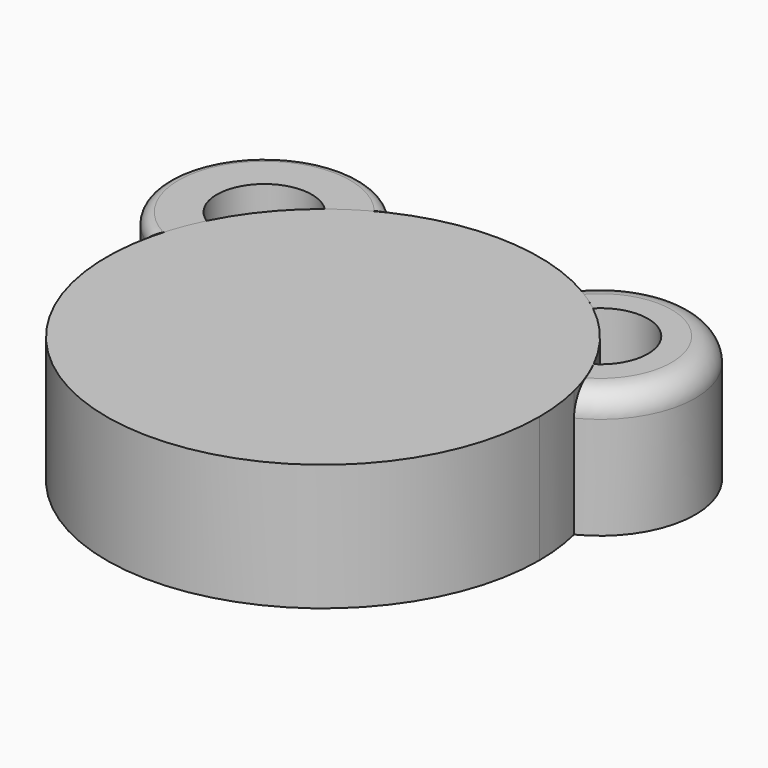
from build123d import *

# Parameters (mm, degrees)
F1_DEPTH = 27.01636
F2_DEPTH = 27.05208
F3_R     = 2.320423
F4_R     = 5.08


with BuildPart() as f1:
    # F0 (on Top) → F1 (new body)
    with BuildSketch(Plane.XY):
        with BuildLine():
            ThreePointArc((-19.576549, 41.949611), (-51.985797, 42.282172), (-45.057971, 10.620283))
            ThreePointArc((-45.057971, 10.620283), (-43.53158, 15.74842), (-41.423667, 20.666179))
            ThreePointArc((-41.423667, 20.666179), (-43.800719, 35.624914), (-28.671424, 36.345022))
            ThreePointArc((-28.671424, 36.345022), (-24.286201, 39.410551), (-19.576549, 41.949611))
        make_face()
        with BuildLine():
            ThreePointArc((41.449769, 20.613777), (43.48729, 15.870309), (44.983974, 10.929468))
            ThreePointArc((44.983974, 10.929468), (51.745319, 42.086581), (19.864175, 41.81418))
            ThreePointArc((19.864175, 41.81418), (24.454412, 39.306397), (28.732447, 36.296799))
            ThreePointArc((28.732447, 36.296799), (43.918373, 35.613294), (41.449769, 20.613777))
        make_face()
    extrude(amount=F1_DEPTH)

    # F3
    f3_edges = [f1.edges().sort_by_distance(p)[0] for p in [
        (-19.576549, 41.949611, 13.50818),
        (-45.057971, 10.620283, 13.50818),
        (-51.985797, 42.282172, 0),
        (-51.985797, 42.282172, 27.01636),
    ]]
    fillet(f3_edges, radius=F3_R)

    # F4
    f4_edges = [f1.edges().sort_by_distance(p)[0] for p in [
        (-21.757461, 44.336159, 13.50818),
        (-51.985797, 42.282172, 2.320423),
        (-51.985797, 42.282172, 24.695937),
        (-47.838757, 12.269288, 13.50818),
        (51.745319, 42.086581, 27.01636),
    ]]
    fillet(f4_edges, radius=F4_R)


with BuildPart() as f2:
    # F0 (on Top) → F2 (new body)
    with BuildSketch(Plane.XY):
        with BuildLine():
            ThreePointArc((-45.057971, 10.620283), (-5.345907, -45.982958), (46.292668, 0))
            ThreePointArc((46.292668, 0), (45.96433, 5.50377), (44.983974, 10.929468))
            ThreePointArc((44.983974, 10.929468), (43.48729, 15.870309), (41.449769, 20.613777))
            ThreePointArc((41.449769, 20.613777), (35.956573, 29.157092), (28.732447, 36.296799))
            ThreePointArc((28.732447, 36.296799), (24.454412, 39.306397), (19.864175, 41.81418))
            ThreePointArc((19.864175, 41.81418), (0.158958, 46.292395), (-19.576549, 41.949611))
            ThreePointArc((-19.576549, 41.949611), (-24.286201, 39.410551), (-28.671424, 36.345022))
            ThreePointArc((-28.671424, 36.345022), (-35.913604, 29.210001), (-41.423667, 20.666179))
            ThreePointArc((-41.423667, 20.666179), (-43.53158, 15.74842), (-45.057971, 10.620283))
        make_face()
    extrude(amount=F2_DEPTH)


solid = Compound([f1.part, f2.part])
